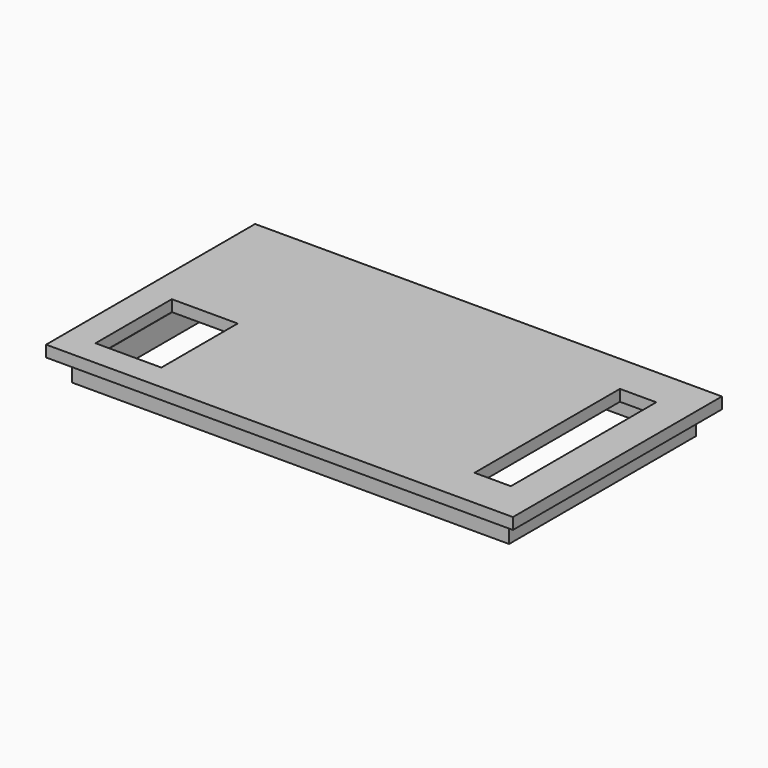
from build123d import *

# Parameters (mm, degrees)
SKETCH003_W     = 41.1
SKETCH003_H     = 23
PAD001_DEPTH    = 1
SKETCH004_W     = 38.5
SKETCH004_H     = 20.6
PAD002_DEPTH    = 2
SKETCH005_W     = 36
SKETCH005_H     = 19
POCKET002_DEPTH = 2.001
SKETCH006_W     = 3.2
SKETCH006_H     = 16
SKETCH006_W_2   = 5.8
SKETCH006_H_2   = 8.4
POCKET003_DEPTH = 1.001


with BuildPart() as part:
    # Sketch003 (on DatumPlane) → Pad001 (new body)
    with BuildSketch(Plane.XY.offset(10.2)):
        Rectangle(SKETCH003_W, SKETCH003_H)
    extrude(amount=PAD001_DEPTH)

    # Sketch004 (on DatumPlane) → Pad002 (join)
    with BuildSketch(Plane.XY.offset(10.2)):
        Rectangle(SKETCH004_W, SKETCH004_H)
    extrude(amount=-PAD002_DEPTH)

    # Sketch005 (on DatumPlane) → Pocket002 (cut, through all)
    with BuildSketch(Plane.XY.offset(10.2)):
        Rectangle(SKETCH005_W, SKETCH005_H)
    extrude(amount=-POCKET002_DEPTH, mode=Mode.SUBTRACT)

    # Sketch006 (on DatumPlane) → Pocket003 (cut, through all)
    with BuildSketch(Plane.XY.offset(10.2)):
        with Locations((15.968977, 0)):
            Rectangle(SKETCH006_W, SKETCH006_H)
        with Locations((-15.127274, -5.017358)):
            Rectangle(SKETCH006_W_2, SKETCH006_H_2)
    extrude(amount=POCKET003_DEPTH, mode=Mode.SUBTRACT)


solid = part.part
